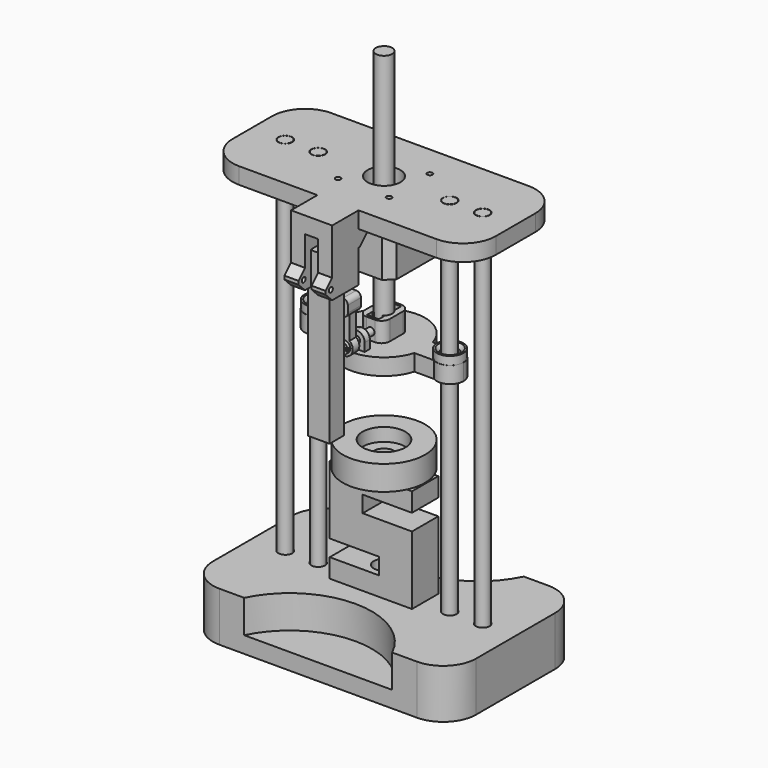
from build123d import *

# Parameters (mm, degrees)
SKETCH_W                = 160
SKETCH_H                = 100
PAD_DEPTH               = 30
SKETCH001_R             = 6
SKETCH001_R_2           = 4.2
POCKET_DEPTH            = 30
POCKET001_DEPTH         = 8
SKETCH003_R             = 15
POCKET002_DEPTH         = 10
FILLET_R                = 20
POCKET003_DEPTH         = 20
FILLET001_R             = 20
FILLET002_R             = 20
FILLET003_R             = 20
SKETCH006_R             = 4.2
POCKET004_DEPTH         = 20
SKETCH007_R             = 4
PAD001_DEPTH            = 250
SKETCH008_R             = 4
PAD002_DEPTH            = 250
SKETCH009_R             = 4
PAD003_DEPTH            = 250
SKETCH010_R             = 4
PAD004_DEPTH            = 250
SKETCH011_W             = 50
SKETCH011_H             = 63
PAD005_DEPTH            = 20
SKETCH012_W             = 30
SKETCH012_H             = 10
POCKET005_DEPTH         = 20
SKETCH013_R             = 6.2
POCKET006_DEPTH         = 11.5
SKETCH014_R             = 6.2
POCKET007_DEPTH         = 11.5
BODY005_PLACEMENT_ANGLE = 90
SKETCH015_R             = 25
PAD006_DEPTH            = 15
SKETCH016_R             = 6.2
POCKET008_DEPTH         = 15
SKETCH017_R             = 13
POCKET009_DEPTH         = 8
SKETCH018_W             = 160
SKETCH018_H             = 70
PAD007_DEPTH            = 10
SKETCH019_R             = 10
POCKET010_DEPTH         = 10
SKETCH020_R             = 8
PAD008_DEPTH            = 10
SKETCH021_R             = 4.2
POCKET011_DEPTH         = 20
SKETCH022_W             = 50
SKETCH022_H             = 50
SKETCH022_W_2           = 39.2
SKETCH022_H_2           = 39.2
PAD009_DEPTH            = 5
SKETCH005_R             = 1.6
POCKET012_DEPTH         = 10
SKETCH023_R             = 4.2
POCKET013_DEPTH         = 10
SKETCH024_W             = 25
SKETCH024_H             = 20
PAD010_DEPTH            = 40
SKETCH025_W             = 8
SKETCH025_H             = 20
POCKET014_DEPTH         = 30
SKETCH026_W             = 13.2
SKETCH026_H             = 11.2
POCKET015_DEPTH         = 20
SKETCH027_W             = 8.5
SKETCH027_H             = 12
PAD011_DEPTH            = 5
SKETCH028_R             = 1.5
POCKET016_DEPTH         = 25
CHAMFER_SIZE            = 4.95
CHAMFER001_SIZE         = 4.95
CHAMFER002_SIZE         = 4.95
CHAMFER003_SIZE         = 4.95
FILLET004_R             = 20
FILLET005_R             = 20
FILLET006_R             = 20
FILLET007_R             = 20
SKETCH029_W             = 8
SKETCH029_H             = 10
PAD012_DEPTH            = 8.5
SKETCH030_W             = 8
SKETCH030_H             = 10
PAD013_DEPTH            = 8.5
CHAMFER004_SIZE         = 7
CHAMFER005_SIZE         = 7
BODY007_PLACEMENT_ANGLE = 180
SKETCH031_R             = 25
PAD014_DEPTH            = 10
SKETCH032_W             = 20
SKETCH032_H             = 15
PAD015_DEPTH            = 12
SKETCH033_R             = 2.7
POCKET017_DEPTH         = 10
SKETCH034_W             = 4.1
SKETCH034_H             = 7.2
POCKET018_DEPTH         = 12
SKETCH035_R             = 2.2
POCKET019_DEPTH         = 30
FILLET008_R             = 5
FILLET009_R             = 5
FILLET010_R             = 5
FILLET011_R             = 5
SKETCH036_R             = 5
PAD016_DEPTH            = 10
SKETCH037_W             = 3.9
SKETCH037_H             = 10
PAD017_DEPTH            = 10
SKETCH038_R             = 2.2
POCKET020_DEPTH         = 4
SKETCH039_R             = 8.1
SKETCH039_R_2           = 5
PAD018_DEPTH            = 5
FILLET012_R             = 5
FILLET013_R             = 4.95
CHAMFER006_SIZE         = 2
CHAMFER007_SIZE         = 2
BODY008_PLACEMENT_ANGLE = 90
PAD019_DEPTH            = 5
SKETCH041_W             = 12
SKETCH041_H             = 10
PAD020_DEPTH            = 5
SKETCH042_W             = 1
SKETCH042_H             = 4.2
POCKET021_DEPTH         = 10
FILLET014_R             = 2.9
FILLET015_R             = 2.9
FILLET016_R             = 2.9
FILLET017_R             = 2.9
SKETCH043_R             = 2.2
POCKET022_DEPTH         = 5
BODY009_PLACEMENT_ANGLE = 90
SKETCH044_R             = 2.2
PAD021_DEPTH            = 30
SKETCH045_R             = 3.5
PAD022_DEPTH            = 2
SKETCH046_W             = 8.168818
SKETCH046_H             = 1.572606
POCKET023_DEPTH         = 1
BODY010_PLACEMENT_ANGLE = 270
SKETCH047_W             = 39
SKETCH047_H             = 39
PAD023_DEPTH            = 30
SKETCH048_R             = 5.5
POCKET024_DEPTH         = 30
CHAMFER008_SIZE         = 5
CHAMFER009_SIZE         = 5
CHAMFER010_SIZE         = 5
CHAMFER011_SIZE         = 5
SKETCH049_R             = 5
PAD024_DEPTH            = 150
SKETCH050_W             = 11
SKETCH050_H             = 13
PAD025_DEPTH            = 100
SKETCH051_W             = 2
SKETCH051_H             = 5
POCKET025_DEPTH         = 100
SKETCH052_W             = 1
SKETCH052_H             = 4
PAD026_DEPTH            = 10
BODY013_PLACEMENT_ANGLE = 90


with BuildPart() as body:
    # Sketch → Pad (new body)
    with BuildSketch(Plane.XY):
        Rectangle(SKETCH_W, SKETCH_H)
    extrude(amount=PAD_DEPTH)

    # Sketch001 (on Face6 of Pad) → Pocket (cut)
    with BuildSketch(Plane.XY.offset(30)):
        Circle(SKETCH001_R)
        with Locations((60, 0)):
            Circle(SKETCH001_R_2)
        with Locations((-60, 0)):
            Circle(SKETCH001_R_2)
    extrude(amount=-POCKET_DEPTH, mode=Mode.SUBTRACT)

    # Sketch002 (on Face4 of Pocket) → Pocket001 (cut)
    with BuildSketch(Plane(origin=(0, 0, 0), x_dir=(1, 0, 0), z_dir=(0, 0, -1))):
        Polygon((-52.436711, 0), (-56.218356, 6.55), (-63.781644, 6.55), (-67.563289, 0), (-63.781644, -6.55), (-56.218356, -6.55), align=None)
        Polygon((67.563289, 0), (63.781644, 6.55), (56.218356, 6.55), (52.436711, 0), (56.218356, -6.55), (63.781644, -6.55), align=None)
    extrude(amount=-POCKET001_DEPTH, mode=Mode.SUBTRACT)

    # Sketch003 (on Face4 of Pocket001) → Pocket002 (cut)
    with BuildSketch(Plane(origin=(0, 0, 0), x_dir=(1, 0, 0), z_dir=(0, 0, -1))):
        Circle(SKETCH003_R)
    extrude(amount=-POCKET002_DEPTH, mode=Mode.SUBTRACT)

    # Fillet
    fillet_edges = [body.edges().sort_by_distance(p)[0] for p in [
        (-80, 50, 15),
    ]]
    fillet(fillet_edges, radius=FILLET_R)

    # Sketch004 → Pocket003 (cut)
    with BuildSketch(Plane.XY.offset(30)):
        with BuildLine():
            ThreePointArc((-45, 50), (0, 21.794495), (45, 50))
            Line((-45, 50), (45, 50))
        make_face()
        with BuildLine():
            ThreePointArc((45, -50), (0, -21.794495), (-45, -50))
            Line((-45, -50), (45, -50))
        make_face()
    extrude(amount=-POCKET003_DEPTH, mode=Mode.SUBTRACT)

    # Fillet001
    fillet001_edges = [body.edges().sort_by_distance(p)[0] for p in [
        (80, -50, 15),
    ]]
    fillet(fillet001_edges, radius=FILLET001_R)

    # Fillet002
    fillet002_edges = [body.edges().sort_by_distance(p)[0] for p in [
        (80, 50, 15),
    ]]
    fillet(fillet002_edges, radius=FILLET002_R)

    # Fillet003
    fillet003_edges = [body.edges().sort_by_distance(p)[0] for p in [
        (-80, -50, 15),
    ]]
    fillet(fillet003_edges, radius=FILLET003_R)

    # Sketch006 (on Face23 of Fillet003) → Pocket004 (cut)
    with BuildSketch(Plane.XY.offset(30)):
        with Locations((-40, 0)):
            Circle(SKETCH006_R)
        with Locations((40, 0)):
            Circle(SKETCH006_R)
    extrude(amount=-POCKET004_DEPTH, mode=Mode.SUBTRACT)


with BuildPart() as body001:
    # Sketch007 → Pad001 (new body)
    with BuildSketch(Plane.XY):
        Circle(SKETCH007_R)
    extrude(amount=PAD001_DEPTH)


with BuildPart() as body001_1:
    # Body001 placement: moved
    add(body001.part.moved(Location((-60.1, 0, 0))))


with BuildPart() as body002:
    # Sketch008 → Pad002 (new body)
    with BuildSketch(Plane.XY):
        Circle(SKETCH008_R)
    extrude(amount=PAD002_DEPTH)


with BuildPart() as body002_1:
    # Body002 placement: moved
    add(body002.part.moved(Location((-40, 0, 0))))


with BuildPart() as body003:
    # Sketch009 → Pad003 (new body)
    with BuildSketch(Plane.XY):
        Circle(SKETCH009_R)
    extrude(amount=PAD003_DEPTH)


with BuildPart() as body003_1:
    # Body003 placement: moved
    add(body003.part.moved(Location((60, 0, 0))))


with BuildPart() as body004:
    # Sketch010 → Pad004 (new body)
    with BuildSketch(Plane.XY):
        Circle(SKETCH010_R)
    extrude(amount=PAD004_DEPTH)


with BuildPart() as body004_1:
    # Body004 placement: moved
    add(body004.part.moved(Location((39.9, 0, 0))))


with BuildPart() as body005:
    # Sketch011 → Pad005 (new body)
    with BuildSketch(Plane.XY):
        Rectangle(SKETCH011_W, SKETCH011_H)
    extrude(amount=PAD005_DEPTH)

    # Sketch012 (on Face6 of Pad005) → Pocket005 (cut)
    with BuildSketch(Plane.XY.offset(20)):
        with Locations((10, 15)):
            Rectangle(SKETCH012_W, SKETCH012_H)
        with Locations((-10, -15)):
            Rectangle(SKETCH012_W, SKETCH012_H)
    extrude(amount=-POCKET005_DEPTH, mode=Mode.SUBTRACT)

    # Sketch013 (on Face1 of Pocket005) → Pocket006 (cut)
    with BuildSketch(Plane(origin=(0, 31.5, 0), x_dir=(-1, 0, 0), z_dir=(0, 1, 0))):
        with Locations((0, 10)):
            Circle(SKETCH013_R)
    extrude(amount=-POCKET006_DEPTH, mode=Mode.SUBTRACT)

    # Sketch014 (on Face11 of Pocket006) → Pocket007 (cut)
    with BuildSketch(Plane.XZ.offset(31.5)):
        with Locations((0, 10)):
            Circle(SKETCH014_R)
    extrude(amount=-POCKET007_DEPTH, mode=Mode.SUBTRACT)


with BuildPart() as body005_1:
    # Body005 placement: moved
    add(body005.part.moved(Location((0, 10, 62))).rotate(Axis((0, 10, 62), (1, 0, 0)), BODY005_PLACEMENT_ANGLE))


with BuildPart() as body006:
    # Sketch015 → Pad006 (new body)
    with BuildSketch(Plane.XY):
        Circle(SKETCH015_R)
    extrude(amount=PAD006_DEPTH)

    # Sketch016 (on Face3 of Pad006) → Pocket008 (cut)
    with BuildSketch(Plane.XY.offset(15)):
        Circle(SKETCH016_R)
    extrude(amount=-POCKET008_DEPTH, mode=Mode.SUBTRACT)

    # Sketch017 (on Face3 of Pocket008) → Pocket009 (cut)
    with BuildSketch(Plane.XY.offset(15)):
        Circle(SKETCH017_R)
    extrude(amount=-POCKET009_DEPTH, mode=Mode.SUBTRACT)


with BuildPart() as body006_1:
    # Body006 placement: moved
    add(body006.part.moved(Location((0, 0, 94))))


with BuildPart() as body007:
    # Sketch018 → Pad007 (new body)
    with BuildSketch(Plane.XY):
        Rectangle(SKETCH018_W, SKETCH018_H)
    extrude(amount=PAD007_DEPTH)

    # Sketch019 (on Face6 of Pad007) → Pocket010 (cut)
    with BuildSketch(Plane.XY.offset(10)):
        Circle(SKETCH019_R)
    extrude(amount=-POCKET010_DEPTH, mode=Mode.SUBTRACT)

    # Sketch020 (on Face5 of Pocket010) → Pad008 (join)
    with BuildSketch(Plane.XY.offset(10)):
        with Locations((-40, 0)):
            Circle(SKETCH020_R)
        with Locations((40, 0)):
            Circle(SKETCH020_R)
    extrude(amount=PAD008_DEPTH)

    # Sketch021 (on Face10 of Pad008) → Pocket011 (cut)
    with BuildSketch(Plane.XY.offset(20)):
        with Locations((-40, 0)):
            Circle(SKETCH021_R)
        with Locations((40, 0)):
            Circle(SKETCH021_R)
    extrude(amount=-POCKET011_DEPTH, mode=Mode.SUBTRACT)

    # Sketch022 (on Face5 of Pocket011) → Pad009 (join)
    with BuildSketch(Plane.XY.offset(10)):
        Rectangle(SKETCH022_W, SKETCH022_H)
        Rectangle(SKETCH022_W_2, SKETCH022_H_2, mode=Mode.SUBTRACT)
    extrude(amount=PAD009_DEPTH)

    # Sketch005 (on Face17 of Pad009) → Pocket012 (cut)
    with BuildSketch(Plane.XY.offset(10)):
        with Locations((-15.5, 15.5)):
            Circle(SKETCH005_R)
        with Locations((15.5, 15.5)):
            Circle(SKETCH005_R)
        with Locations((-15.5, -15.5)):
            Circle(SKETCH005_R)
        with Locations((15.5, -15.5)):
            Circle(SKETCH005_R)
    extrude(amount=-POCKET012_DEPTH, mode=Mode.SUBTRACT)

    # Sketch023 (on Face5 of Pocket012) → Pocket013 (cut)
    with BuildSketch(Plane.XY.offset(10)):
        with Locations((-60, 0)):
            Circle(SKETCH023_R)
        with Locations((60, 0)):
            Circle(SKETCH023_R)
    extrude(amount=-POCKET013_DEPTH, mode=Mode.SUBTRACT)

    # Sketch024 (on Face4 of Pocket013) → Pad010 (join)
    with BuildSketch(Plane(origin=(0, 0, 0), x_dir=(1, 0, 0), z_dir=(0, 0, -1))):
        with Locations((0, 45)):
            Rectangle(SKETCH024_W, SKETCH024_H)
    extrude(amount=-PAD010_DEPTH)

    # Sketch025 (on Face31 of Pad010) → Pocket014 (cut)
    with BuildSketch(Plane.XY.offset(40)):
        with Locations((0, -45)):
            Rectangle(SKETCH025_W, SKETCH025_H)
    extrude(amount=-POCKET014_DEPTH, mode=Mode.SUBTRACT)

    # Sketch026 (on Face33 of Pocket014) → Pocket015 (cut)
    with BuildSketch(Plane.XY.offset(40)):
        with Locations((0, -44.7)):
            Rectangle(SKETCH026_W, SKETCH026_H)
    extrude(amount=-POCKET015_DEPTH, mode=Mode.SUBTRACT)

    # Sketch027 (on Face29 of Pocket015) → Pad011 (join)
    with BuildSketch(Plane.XZ.offset(55)):
        with Locations((-8.25, 34)):
            Rectangle(SKETCH027_W, SKETCH027_H)
        with Locations((8.25, 34)):
            Rectangle(SKETCH027_W, SKETCH027_H)
    extrude(amount=PAD011_DEPTH)

    # Sketch028 (on Face28 of Pad011) → Pocket016 (cut)
    with BuildSketch(Plane.YZ.offset(12.5)):
        with Locations((-56, 34)):
            Circle(SKETCH028_R)
    extrude(amount=-POCKET016_DEPTH, mode=Mode.SUBTRACT)

    # Chamfer
    chamfer_edges = [body007.edges().sort_by_distance(p)[0] for p in [
        (8.25, -60, 28),
    ]]
    chamfer(chamfer_edges, length=CHAMFER_SIZE)

    # Chamfer001
    chamfer001_edges = [body007.edges().sort_by_distance(p)[0] for p in [
        (-8.25, -60, 28),
    ]]
    chamfer(chamfer001_edges, length=CHAMFER001_SIZE)

    # Chamfer002
    chamfer002_edges = [body007.edges().sort_by_distance(p)[0] for p in [
        (8.25, -60, 40),
    ]]
    chamfer(chamfer002_edges, length=CHAMFER002_SIZE)

    # Chamfer003
    chamfer003_edges = [body007.edges().sort_by_distance(p)[0] for p in [
        (-8.25, -60, 40),
    ]]
    chamfer(chamfer003_edges, length=CHAMFER003_SIZE)

    # Fillet004
    fillet004_edges = [body007.edges().sort_by_distance(p)[0] for p in [
        (-80, -35, 5),
    ]]
    fillet(fillet004_edges, radius=FILLET004_R)

    # Fillet005
    fillet005_edges = [body007.edges().sort_by_distance(p)[0] for p in [
        (-80, 35, 5),
    ]]
    fillet(fillet005_edges, radius=FILLET005_R)

    # Fillet006
    fillet006_edges = [body007.edges().sort_by_distance(p)[0] for p in [
        (80, -35, 5),
    ]]
    fillet(fillet006_edges, radius=FILLET006_R)

    # Fillet007
    fillet007_edges = [body007.edges().sort_by_distance(p)[0] for p in [
        (80, 35, 5),
    ]]
    fillet(fillet007_edges, radius=FILLET007_R)

    # Sketch029 (on Face22 of Fillet007) → Pad012 (join)
    with BuildSketch(Plane.YZ.offset(12.5)):
        with Locations((-31, 15)):
            Rectangle(SKETCH029_W, SKETCH029_H)
    extrude(amount=-PAD012_DEPTH)

    # Sketch030 (on Face24 of Pad012) → Pad013 (join)
    with BuildSketch(Plane(origin=(-12.5, 0, 0), x_dir=(0, -1, 0), z_dir=(-1, 0, 0))):
        with Locations((31, 15)):
            Rectangle(SKETCH030_W, SKETCH030_H)
    extrude(amount=-PAD013_DEPTH)

    # Chamfer004
    chamfer004_edges = [body007.edges().sort_by_distance(p)[0] for p in [
        (8.25, -27, 20),
    ]]
    chamfer(chamfer004_edges, length=CHAMFER004_SIZE)

    # Chamfer005
    chamfer005_edges = [body007.edges().sort_by_distance(p)[0] for p in [
        (-8.25, -27, 20),
    ]]
    chamfer(chamfer005_edges, length=CHAMFER005_SIZE)


with BuildPart() as body007_1:
    # Body007 placement: moved
    add(body007.part.moved(Location((0, 0, 250))).rotate(Axis((0, 0, 250), (0, 1, 0)), BODY007_PLACEMENT_ANGLE))


with BuildPart() as body008:
    # Sketch031 → Pad014 (new body)
    with BuildSketch(Plane.XY):
        Circle(SKETCH031_R)
    extrude(amount=PAD014_DEPTH)

    # Sketch032 (on Face3 of Pad014) → Pad015 (join)
    with BuildSketch(Plane.XY.offset(10)):
        Rectangle(SKETCH032_W, SKETCH032_H)
    extrude(amount=PAD015_DEPTH)

    # Sketch033 (on Face8 of Pad015) → Pocket017 (cut)
    with BuildSketch(Plane.XY.offset(22)):
        Circle(SKETCH033_R)
    extrude(amount=-POCKET017_DEPTH, mode=Mode.SUBTRACT)

    # Sketch034 (on Face8 of Pocket017) → Pocket018 (cut)
    with BuildSketch(Plane.XY.offset(22)):
        with Locations((-6.35, 0)):
            Rectangle(SKETCH034_W, SKETCH034_H)
        with Locations((6.35, 0)):
            Rectangle(SKETCH034_W, SKETCH034_H)
    extrude(amount=-POCKET018_DEPTH, mode=Mode.SUBTRACT)

    # Sketch035 (on Face6 of Pocket018) → Pocket019 (cut)
    with BuildSketch(Plane.YZ.offset(10)):
        with Locations((0, 15)):
            Circle(SKETCH035_R)
    extrude(amount=-POCKET019_DEPTH, mode=Mode.SUBTRACT)

    # Fillet008
    fillet008_edges = [body008.edges().sort_by_distance(p)[0] for p in [
        (-10, -7.5, 16),
    ]]
    fillet(fillet008_edges, radius=FILLET008_R)

    # Fillet009
    fillet009_edges = [body008.edges().sort_by_distance(p)[0] for p in [
        (-10, 7.5, 16),
    ]]
    fillet(fillet009_edges, radius=FILLET009_R)

    # Fillet010
    fillet010_edges = [body008.edges().sort_by_distance(p)[0] for p in [
        (10, 7.5, 16),
    ]]
    fillet(fillet010_edges, radius=FILLET010_R)

    # Fillet011
    fillet011_edges = [body008.edges().sort_by_distance(p)[0] for p in [
        (10, -7.5, 16),
    ]]
    fillet(fillet011_edges, radius=FILLET011_R)

    # Sketch036 (on Face1 of Fillet011) → Pad016 (join)
    with BuildSketch(Plane.XY.offset(10)):
        with BuildLine():
            Line((-7, 36), (-7, -36))
            ThreePointArc((-7, -36), (-7.103731, -44.222064), (0, -48.363333))
            ThreePointArc((0, -48.363333), (7.103731, -44.222064), (7, -36))
            Line((7, 36), (7, -36))
            ThreePointArc((7, 36), (7.103731, 44.222064), (0, 48.363333))
            ThreePointArc((0, 48.363333), (-7.103731, 44.222064), (-7, 36))
        make_face()
        with Locations((0, -40.2)):
            Circle(SKETCH036_R, mode=Mode.SUBTRACT)
        with Locations((0, 40.2)):
            Circle(SKETCH036_R, mode=Mode.SUBTRACT)
    extrude(amount=-PAD016_DEPTH)

    # Sketch037 (on Face13 of Pad016) → Pad017 (join)
    with BuildSketch(Plane.XY.offset(10)):
        with Locations((-18.95, 0)):
            Rectangle(SKETCH037_W, SKETCH037_H)
    extrude(amount=PAD017_DEPTH)

    # Sketch038 (on Face32 of Pad017) → Pocket020 (cut)
    with BuildSketch(Plane(origin=(-20.9, 0, 0), x_dir=(0, -1, 0), z_dir=(-1, 0, 0))):
        with Locations((0, 15)):
            Circle(SKETCH038_R)
    extrude(amount=-POCKET020_DEPTH, mode=Mode.SUBTRACT)

    # Sketch039 (on Face18 of Pocket020) → Pad018 (join)
    with BuildSketch(Plane.XY.offset(10)):
        with Locations((0, 40.2)):
            Circle(SKETCH039_R)
        with Locations((0, 40.2)):
            Circle(SKETCH039_R_2, mode=Mode.SUBTRACT)
        with Locations((0, -40.2)):
            Circle(SKETCH039_R)
        with Locations((0, -40.2)):
            Circle(SKETCH039_R_2, mode=Mode.SUBTRACT)
    extrude(amount=PAD018_DEPTH)

    # Fillet012
    fillet012_edges = [body008.edges().sort_by_distance(p)[0] for p in [
        (-18.95, 5, 20),
    ]]
    fillet(fillet012_edges, radius=FILLET012_R)

    # Fillet013
    fillet013_edges = [body008.edges().sort_by_distance(p)[0] for p in [
        (-18.95, -5, 20),
    ]]
    fillet(fillet013_edges, radius=FILLET013_R)

    # Chamfer006
    chamfer006_edges = [body008.edges().sort_by_distance(p)[0] for p in [
        (-5, 40.2, 15),
    ]]
    chamfer(chamfer006_edges, length=CHAMFER006_SIZE)

    # Chamfer007
    chamfer007_edges = [body008.edges().sort_by_distance(p)[0] for p in [
        (-5, -40.2, 15),
    ]]
    chamfer(chamfer007_edges, length=CHAMFER007_SIZE)


with BuildPart() as body008_1:
    # Body008 placement: moved
    add(body008.part.moved(Location((0, 0, 156))).rotate(Axis((0, 0, 156), (0, 0, 1)), BODY008_PLACEMENT_ANGLE))


with BuildPart() as body009:
    # Sketch040 → Pad019 (new body)
    with BuildSketch(Plane.XY):
        with BuildLine():
            ThreePointArc((-3, 4), (0, -5), (3, 4))
            Line((3, 4), (3, 19))
            Line((6, 19), (3, 19))
            Line((6, 29), (6, 19))
            Line((-6, 29), (6, 29))
            Line((-6, 19), (-6, 29))
            Line((-3, 19), (-6, 19))
            Line((-3, 4), (-3, 19))
        make_face()
    extrude(amount=PAD019_DEPTH)

    # Sketch041 (on Face10 of Pad019) → Pad020 (join)
    with BuildSketch(Plane.XY.offset(5)):
        with Locations((0, 24)):
            Rectangle(SKETCH041_W, SKETCH041_H)
    extrude(amount=PAD020_DEPTH)

    # Sketch042 (on Face15 of Pad020) → Pocket021 (cut)
    with BuildSketch(Plane.XY.offset(10)):
        with Locations((0, 24.173883)):
            Rectangle(SKETCH042_W, SKETCH042_H)
    extrude(amount=-POCKET021_DEPTH, mode=Mode.SUBTRACT)

    # Fillet014
    fillet014_edges = [body009.edges().sort_by_distance(p)[0] for p in [
        (6, 19, 7.5),
    ]]
    fillet(fillet014_edges, radius=FILLET014_R)

    # Fillet015
    fillet015_edges = [body009.edges().sort_by_distance(p)[0] for p in [
        (-6, 19, 7.5),
    ]]
    fillet(fillet015_edges, radius=FILLET015_R)

    # Fillet016
    fillet016_edges = [body009.edges().sort_by_distance(p)[0] for p in [
        (6, 29, 7.5),
    ]]
    fillet(fillet016_edges, radius=FILLET016_R)

    # Fillet017
    fillet017_edges = [body009.edges().sort_by_distance(p)[0] for p in [
        (-6, 29, 7.5),
    ]]
    fillet(fillet017_edges, radius=FILLET017_R)

    # Sketch043 (on Face26 of Fillet017) → Pocket022 (cut)
    with BuildSketch(Plane.XY.offset(5)):
        Circle(SKETCH043_R)
    extrude(amount=-POCKET022_DEPTH, mode=Mode.SUBTRACT)


with BuildPart() as body009_1:
    # Body009 placement: moved
    add(body009.part.moved(Location((0, -25, 171))).rotate(Axis((0, -25, 171), (1, 0, 0)), BODY009_PLACEMENT_ANGLE))


with BuildPart() as body010:
    # Sketch044 → Pad021 (new body)
    with BuildSketch(Plane.XY):
        Circle(SKETCH044_R)
    extrude(amount=PAD021_DEPTH)

    # Sketch045 (on Face2 of Pad021) → Pad022 (join)
    with BuildSketch(Plane(origin=(0, 0, 0), x_dir=(1, 0, 0), z_dir=(0, 0, -1))):
        Circle(SKETCH045_R)
    extrude(amount=PAD022_DEPTH)

    # Sketch046 (on Face3 of Pad022) → Pocket023 (cut)
    with BuildSketch(Plane(origin=(0, 0, -2), x_dir=(1, 0, 0), z_dir=(0, 0, -1))):
        with Locations((0.071079, 0.021842)):
            Rectangle(SKETCH046_W, SKETCH046_H)
    extrude(amount=-POCKET023_DEPTH, mode=Mode.SUBTRACT)


with BuildPart() as body010_1:
    # Body010 placement: moved
    add(body010.part.moved(Location((0, -30, 171))).rotate(Axis((0, -30, 171), (1, 0, 0)), BODY010_PLACEMENT_ANGLE))


with BuildPart() as body011:
    # Sketch047 → Pad023 (new body)
    with BuildSketch(Plane.XY):
        with Locations((-0.15, 0)):
            Rectangle(SKETCH047_W, SKETCH047_H)
    extrude(amount=PAD023_DEPTH)

    # Sketch048 (on Face6 of Pad023) → Pocket024 (cut)
    with BuildSketch(Plane.XY.offset(30)):
        Circle(SKETCH048_R)
    extrude(amount=-POCKET024_DEPTH, mode=Mode.SUBTRACT)

    # Chamfer008
    chamfer008_edges = [body011.edges().sort_by_distance(p)[0] for p in [
        (-19.65, -19.5, 15),
    ]]
    chamfer(chamfer008_edges, length=CHAMFER008_SIZE)

    # Chamfer009
    chamfer009_edges = [body011.edges().sort_by_distance(p)[0] for p in [
        (19.35, -19.5, 15),
    ]]
    chamfer(chamfer009_edges, length=CHAMFER009_SIZE)

    # Chamfer010
    chamfer010_edges = [body011.edges().sort_by_distance(p)[0] for p in [
        (19.35, 19.5, 15),
    ]]
    chamfer(chamfer010_edges, length=CHAMFER010_SIZE)

    # Chamfer011
    chamfer011_edges = [body011.edges().sort_by_distance(p)[0] for p in [
        (-19.65, 19.5, 15),
    ]]
    chamfer(chamfer011_edges, length=CHAMFER011_SIZE)


with BuildPart() as body011_1:
    # Body011 placement: moved
    add(body011.part.moved(Location((0, 0, 207))))


with BuildPart() as body012:
    # Sketch049 → Pad024 (new body)
    with BuildSketch(Plane.XY):
        Circle(SKETCH049_R)
    extrude(amount=PAD024_DEPTH)


with BuildPart() as body012_1:
    # Body012 placement: moved
    add(body012.part.moved(Location((0, 0, 167))))


with BuildPart() as body013:
    # Sketch050 → Pad025 (new body)
    with BuildSketch(Plane.XY):
        Rectangle(SKETCH050_W, SKETCH050_H)
    extrude(amount=PAD025_DEPTH)

    # Sketch051 (on Face6 of Pad025) → Pocket025 (cut)
    with BuildSketch(Plane.XY.offset(100)):
        with Locations((4.5, 0)):
            Rectangle(SKETCH051_W, SKETCH051_H)
    extrude(amount=-POCKET025_DEPTH, mode=Mode.SUBTRACT)

    # Sketch052 (on Face10 of Pocket025) → Pad026 (join)
    with BuildSketch(Plane.YZ.offset(3.5)):
        with Locations((0.026047, 66.264874)):
            Rectangle(SKETCH052_W, SKETCH052_H)
    extrude(amount=PAD026_DEPTH)


with BuildPart() as body013_1:
    # Body013 placement: moved
    add(body013.part.moved(Location((0, -44, 129))).rotate(Axis((0, -44, 129), (0, 0, 1)), BODY013_PLACEMENT_ANGLE))


solid = Compound([body.part, body001_1.part, body002_1.part, body003_1.part, body004_1.part, body005_1.part, body006_1.part, body007_1.part, body008_1.part, body009_1.part, body010_1.part, body011_1.part, body012_1.part, body013_1.part])
